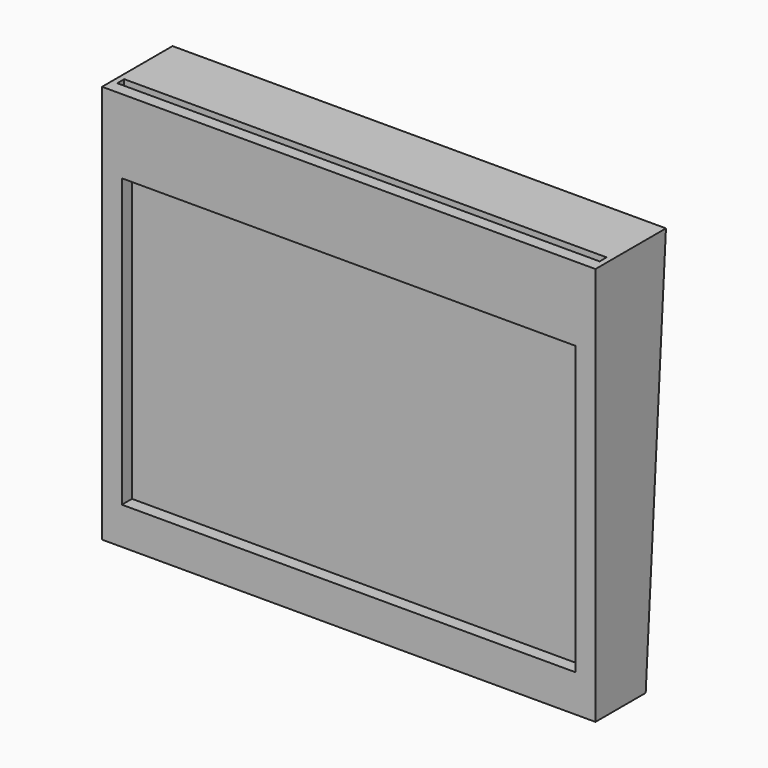
from build123d import *

# Parameters (mm, degrees)
F0_W     = 112
F0_H     = 90.5
F1_DEPTH = 20
F3_DEPTH = 200
F4_W     = 103
F4_H     = 65.23
F5_DEPTH = 2.87
F6_W     = 109.5
F6_H     = 1.985677
F7_DEPTH = 3


with BuildPart() as f1:
    # F0 (on Front) → F1 (new body)
    with BuildSketch(Plane.XZ):
        Rectangle(F0_W, F0_H)
    extrude(amount=F1_DEPTH)

    # F2 (on face) → F3 (cut)
    with BuildSketch(Plane(origin=(-56, 0, 0), x_dir=(0, -1, 0), z_dir=(-1, 0, 0))):
        Polygon((5.75, -45.25), (0, 45.25), (0, -45.25), align=None)
    extrude(amount=-F3_DEPTH, mode=Mode.SUBTRACT)

    # F4 (on face) → F5 (cut)
    with BuildSketch(Plane.XZ.offset(20)):
        with Locations((0, -4.185)):
            Rectangle(F4_W, F4_H)
    extrude(amount=-F5_DEPTH, mode=Mode.SUBTRACT)

    # F6 (on face) → F7 (cut)
    with BuildSketch(Plane.XY.offset(45.25)):
        with Locations((0, -16.257161)):
            Rectangle(F6_W, F6_H)
    extrude(amount=-F7_DEPTH, mode=Mode.SUBTRACT)


solid = f1.part
